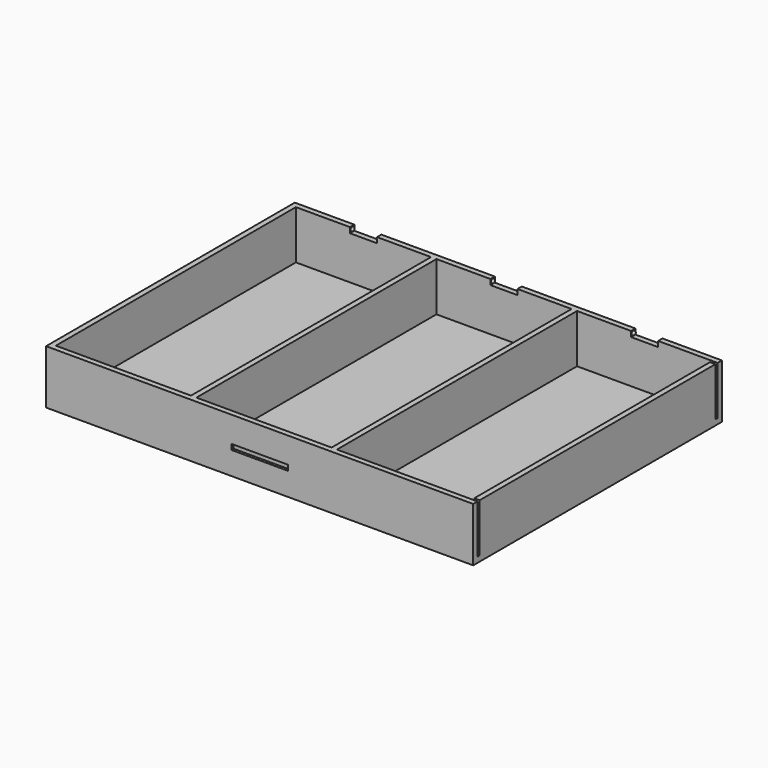
from build123d import *

# Parameters (mm, degrees)
F0_W      = 158
F0_H      = 115
F1_DEPTH  = 20
F2_T      = -2
F3_W      = 2
F3_H      = 2
F3_H_2    = 111
F4_DEPTH  = 20
F5_W      = 2
F5_H      = 1
F6_DEPTH  = 18
F7_W      = 10
F7_H      = 2
F8_DEPTH  = 2
F21_W     = 21
F21_H     = 2
F22_DEPTH = 1


with BuildPart() as f1:
    # F0 (on Top) → F1 (new body)
    with BuildSketch(Plane.XY):
        with Locations((-40.1476950792, 0.7924512029)):
            Rectangle(F0_W, F0_H)
    extrude(amount=F1_DEPTH)

    # F2
    f2_openings = [f1.faces().sort_by_distance(p)[0] for p in [
        (-40.147695, 0.792451, 20),
    ]]
    offset(amount=F2_T, openings=f2_openings)

    # F3 (on face) → F4 (join)
    with BuildSketch(Plane.XY.offset(20)):
        with Locations((-66.1476950792, 57.2924512029)):
            Rectangle(F3_W, F3_H)
        with Locations((-66.1476950792, -55.7075487971)):
            Rectangle(F3_W, F3_H)
        with Locations((-14.1476950792, 57.2924512029)):
            Rectangle(F3_W, F3_H)
        with Locations((-14.1476950792, -55.7075487971)):
            Rectangle(F3_W, F3_H)
        with Locations((-14.1476950792, 0.7924512029)):
            Rectangle(F3_W, F3_H_2)
        with Locations((-66.1476950792, 0.7924512029)):
            Rectangle(F3_W, F3_H_2)
    extrude(amount=-F4_DEPTH)

    # F5 (on face) → F6 (cut)
    with BuildSketch(Plane.XY.offset(20)):
        with Locations((37.8523049208, 55.7924512029)):
            Rectangle(F5_W, F5_H)
        with Locations((37.8523049208, -54.2075487971)):
            Rectangle(F5_W, F5_H)
    extrude(amount=-F6_DEPTH, mode=Mode.SUBTRACT)

    # F7 (on face) → F8 (cut)
    with BuildSketch(Plane.XY.offset(20)):
        with Locations((-92.1476950792, 57.2924512029)):
            Rectangle(F7_W, F7_H)
        with Locations((11.8523049208, 57.2924512029)):
            Rectangle(F7_W, F7_H)
        with Locations((-40.1753512025, 57.2924512029)):
            Rectangle(F7_W, F7_H)
    extrude(amount=-F8_DEPTH, mode=Mode.SUBTRACT)

    # F9 (on face) → F10 (revolve)
    with BuildSketch(Plane.YZ.offset(-97.1476950792)):
        with BuildLine():
            ThreePointArc((56.9494204277, 18.3330443139), (57.6831089294, 18.3597761792), (58.0424512029, 19))
            ThreePointArc((58.0424512029, 19), (57.9330206868, 19.3900906769), (57.6366625729, 19.6663471563))
            Line((57.6366625729, 19.6663471563), (56.9494204277, 18.3330443139))
        make_face()
    revolve(axis=Axis((-97.1476950792, 57.2930415003, 18.9996957351), (0, -0.4581616098, -0.8888689101)))

    # F11 (on face) → F12 (revolve)
    with BuildSketch(Plane(origin=(-87.1476950792, 0, 0), x_dir=(0, -1, 0), z_dir=(-1, 0, 0))):
        with BuildLine():
            ThreePointArc((-56.5737668636, 18.7855406321), (-56.5503214115, 18.8916331565), (-56.5424512029, 19))
            ThreePointArc((-56.5424512029, 19), (-57.1849084822, 19.7422496637), (-58.0116100381, 19.2128627954))
            Line((-58.0116100381, 19.2128627954), (-56.5737668636, 18.7855406321))
        make_face()
    revolve(axis=Axis((-87.1476950792, 57.2926884509, 18.9992017138), (0, -0.9585627073, -0.2848816178)))

    # F13 (on face) → F14 (revolve)
    with BuildSketch(Plane(origin=(-35.1753512025, 0, 0), x_dir=(0, -1, 0), z_dir=(-1, 0, 0))):
        with BuildLine():
            ThreePointArc((-56.5544690905, 18.8662749021), (-56.5454617169, 18.9328679819), (-56.5424512029, 19))
            ThreePointArc((-56.5424512029, 19), (-57.2299686819, 19.7473927579), (-58.0320403617, 19.1245306231))
            Line((-58.0320403617, 19.1245306231), (-56.5544690905, 18.8662749021))
        make_face()
    revolve(axis=Axis((-35.1753512025, 57.2932547261, 18.9954027626), (0, -0.9850665855, -0.172173814)))

    # F15 (on face) → F16 (revolve)
    with BuildSketch(Plane.YZ.offset(-45.1753512025)):
        with BuildLine():
            ThreePointArc((56.9089305888, 18.3554754166), (57.6631664167, 18.3480258976), (58.0424512029, 19))
            ThreePointArc((58.0424512029, 19), (57.9443668734, 19.3708179586), (57.675768647, 19.6446454351))
            Line((57.675768647, 19.6446454351), (56.9089305888, 18.3554754166))
        make_face()
    revolve(axis=Axis((-45.1753512025, 57.2923496179, 19.0000604259), (0, -0.5112253785, -0.8594466897)))

    # F17 (on face) → F18 (revolve)
    with BuildSketch(Plane.YZ.offset(6.8523049208)):
        with BuildLine():
            ThreePointArc((56.8813847049, 18.3726848206), (57.648962161, 18.3401515805), (58.0424512029, 19))
            ThreePointArc((58.0424512029, 19), (57.9515038931, 19.35797982), (57.7007190655, 19.6291401691))
            Line((57.7007190655, 19.6291401691), (56.8813847049, 18.3726848206))
        make_face()
    revolve(axis=Axis((6.8523049208, 57.2910518852, 19.0009124949), (0, -0.546224262, -0.8376389769)))

    # F19 (on face) → F20 (revolve)
    with BuildSketch(Plane(origin=(16.8523049208, 0, 0), x_dir=(0, -1, 0), z_dir=(-1, 0, 0))):
        with BuildLine():
            ThreePointArc((-56.7624630169, 18.4693282345), (-56.5996340771, 18.7127641557), (-56.5424512029, 19))
            ThreePointArc((-56.5424512029, 19), (-57.0069017432, 19.6935138831), (-57.8250152191, 19.5280867056))
            Line((-57.8250152191, 19.5280867056), (-56.7624630169, 18.4693282345))
        make_face()
    revolve(axis=Axis((16.8523049208, 57.293739118, 18.99870747), (0, -0.7083702312, -0.7058410696)))

    # F21 (on face) → F22 (cut)
    with BuildSketch(Plane.XZ.offset(56.7075487971)):
        with Locations((-40.1476950792, 9.5)):
            Rectangle(F21_W, F21_H)
    extrude(amount=-F22_DEPTH, mode=Mode.SUBTRACT)


solid = f1.part
